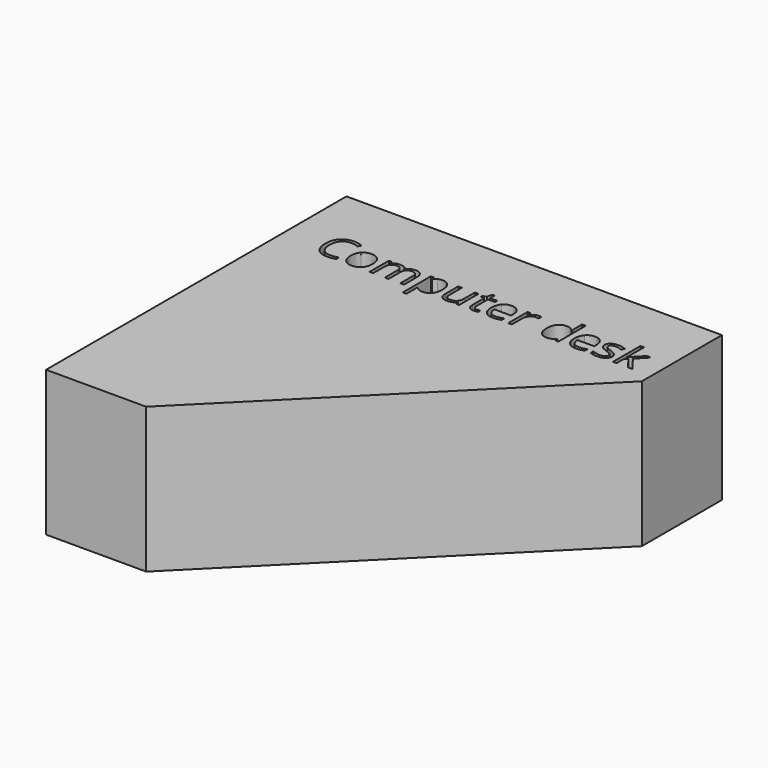
from build123d import *

# Parameters (mm, degrees)
F1_DEPTH = 736.6


with BuildPart() as f1:
    # F0 (on Top) → F1 (new body)
    with BuildSketch(Plane.XY):
        Polygon((1905, 0), (0, 0), (0, -1905), (508, -1905), (1905, -508), align=None)
        with BuildLine():
            add(Edge.make_bspline(
                [(303.0033009032, -308.7238721719), (284.4181366044, -300.022147847), (265.8329723055, -300.022147847)],
                knots=[0, 0, 0, 1, 1, 1], degree=2))
            add(Edge.make_bspline(
                [(265.8329723055, -300.022147847), (238.8683697678, -300.022147847), (223.2553993741, -317.9806447562)],
                knots=[0, 0, 0, 1, 1, 1], degree=2))
            add(Edge.make_bspline(
                [(223.2553993741, -317.9806447562), (207.6424289805, -335.9391416654), (207.6424289805, -367.1650824527)],
                knots=[0, 0, 0, 1, 1, 1], degree=2))
            add(Edge.make_bspline(
                [(207.6424289805, -367.1650824527), (207.6424289805, -399.250452803), (222.7003511147, -416.7792349308)],
                knots=[0, 0, 0, 1, 1, 1], degree=2))
            add(Edge.make_bspline(
                [(222.7003511147, -416.7792349308), (237.758273249, -434.3080170585), (265.6181149147, -434.3080170585)],
                knots=[0, 0, 0, 1, 1, 1], degree=2))
            add(Edge.make_bspline(
                [(265.6181149147, -434.3080170585), (282.7350870436, -434.3080170585), (304.686350464, -428.1487718574)],
                knots=[0, 0, 0, 1, 1, 1], degree=2))
            Line((304.686350464, -428.1487718574), (304.686350464, -444.8002196396))
            add(Edge.make_bspline(
                [(304.686350464, -444.8002196396), (287.6768070306, -451.2101317966), (262.7175401398, -451.2101317966)],
                knots=[0, 0, 0, 1, 1, 1], degree=2))
            add(Edge.make_bspline(
                [(262.7175401398, -451.2101317966), (226.5856889306, -451.2101317966), (206.9441424606, -429.2588683762)],
                knots=[0, 0, 0, 1, 1, 1], degree=2))
            add(Edge.make_bspline(
                [(206.9441424606, -429.2588683762), (187.3025959905, -407.3076049557), (187.3025959905, -366.9144154969)],
                knots=[0, 0, 0, 1, 1, 1], degree=2))
            add(Edge.make_bspline(
                [(187.3025959905, -366.9144154969), (187.3025959905, -341.63286252), (196.756321183, -322.6179834396)],
                knots=[0, 0, 0, 1, 1, 1], degree=2))
            add(Edge.make_bspline(
                [(196.756321183, -322.6179834396), (206.2100463755, -303.6031043593), (224.0611145894, -293.3078543864)],
                knots=[0, 0, 0, 1, 1, 1], degree=2))
            add(Edge.make_bspline(
                [(224.0611145894, -293.3078543864), (241.9121828033, -283.0126044135), (266.0836392613, -283.0126044135)],
                knots=[0, 0, 0, 1, 1, 1], degree=2))
            add(Edge.make_bspline(
                [(266.0836392613, -283.0126044135), (291.7949070197, -283.0126044135), (311.0604530559, -292.3947104757)],
                knots=[0, 0, 0, 1, 1, 1], degree=2))
            Line((311.0604530559, -292.3947104757), (303.0033009032, -308.7238721719))
        make_face(mode=Mode.SUBTRACT)
        with BuildLine():
            add(Edge.make_bspline(
                [(428.2830644864, -341.1852429559), (443.448415316, -358.3201198673), (443.448415316, -387.5049154427)],
                knots=[0, 0, 0, 1, 1, 1], degree=2))
            add(Edge.make_bspline(
                [(443.448415316, -387.5049154427), (443.448415316, -417.5133310158), (428.3546836166, -434.3617314062)],
                knots=[0, 0, 0, 1, 1, 1], degree=2))
            add(Edge.make_bspline(
                [(428.3546836166, -434.3617314062), (413.2609519172, -451.2101317966), (386.6186354657, -451.2101317966)],
                knots=[0, 0, 0, 1, 1, 1], degree=2))
            add(Edge.make_bspline(
                [(386.6186354657, -451.2101317966), (370.146235509, -451.2101317966), (357.3980303252, -443.47526573)],
                knots=[0, 0, 0, 1, 1, 1], degree=2))
            add(Edge.make_bspline(
                [(357.3980303252, -443.47526573), (344.6498251414, -435.7403996635), (337.7027695075, -421.3091449189)],
                knots=[0, 0, 0, 1, 1, 1], degree=2))
            add(Edge.make_bspline(
                [(337.7027695075, -421.3091449189), (330.7557138736, -406.8778901743), (330.7557138736, -387.5049154427)],
                knots=[0, 0, 0, 1, 1, 1], degree=2))
            add(Edge.make_bspline(
                [(330.7557138736, -387.5049154427), (330.7557138736, -357.5323094346), (345.7599216602, -340.7913377396)],
                knots=[0, 0, 0, 1, 1, 1], degree=2))
            add(Edge.make_bspline(
                [(345.7599216602, -340.7913377396), (360.7641294468, -324.0503660445), (387.4064458984, -324.0503660445)],
                knots=[0, 0, 0, 1, 1, 1], degree=2))
            add(Edge.make_bspline(
                [(387.4064458984, -324.0503660445), (413.1177136567, -324.0503660445), (428.2830644864, -341.1852429559)],
                knots=[0, 0, 0, 1, 1, 1], degree=2))
        make_face(mode=Mode.SUBTRACT)
        with BuildLine():
            Line((650.9290356392, -448.9541291939), (632.3796809054, -448.9541291939))
            Line((632.3796809054, -448.9541291939), (632.3796809054, -369.1704180996))
            add(Edge.make_bspline(
                [(632.3796809054, -369.1704180996), (632.3796809054, -354.4884963992), (626.1130070089, -347.1654403315)],
                knots=[0, 0, 0, 1, 1, 1], degree=2))
            add(Edge.make_bspline(
                [(626.1130070089, -347.1654403315), (619.8463331123, -339.8423842638), (606.6326035819, -339.8423842638)],
                knots=[0, 0, 0, 1, 1, 1], degree=2))
            add(Edge.make_bspline(
                [(606.6326035819, -339.8423842638), (589.3007740623, -339.8423842638), (581.0108597363, -349.797443368)],
                knots=[0, 0, 0, 1, 1, 1], degree=2))
            add(Edge.make_bspline(
                [(581.0108597363, -349.797443368), (572.7209454103, -359.7525024723), (572.7209454103, -380.4504311134)],
                knots=[0, 0, 0, 1, 1, 1], degree=2))
            Line((572.7209454103, -380.4504311134), (572.7209454103, -448.9541291939))
            Line((572.7209454103, -448.9541291939), (554.1357811115, -448.9541291939))
            Line((554.1357811115, -448.9541291939), (554.1357811115, -369.1704180996))
            add(Edge.make_bspline(
                [(554.1357811115, -369.1704180996), (554.1357811115, -354.4884963992), (547.8691072149, -347.1654403315)],
                knots=[0, 0, 0, 1, 1, 1], degree=2))
            add(Edge.make_bspline(
                [(547.8691072149, -347.1654403315), (541.6024333184, -339.8423842638), (528.2812750926, -339.8423842638)],
                knots=[0, 0, 0, 1, 1, 1], degree=2))
            add(Edge.make_bspline(
                [(528.2812750926, -339.8423842638), (510.8420168776, -339.8423842638), (502.7311503773, -350.2987772798)],
                knots=[0, 0, 0, 1, 1, 1], degree=2))
            add(Edge.make_bspline(
                [(502.7311503773, -350.2987772798), (494.6202838769, -360.7551702957), (494.6202838769, -384.6043406677)],
                knots=[0, 0, 0, 1, 1, 1], degree=2))
            Line((494.6202838769, -384.6043406677), (494.6202838769, -448.9541291939))
            Line((494.6202838769, -448.9541291939), (476.035119578, -448.9541291939))
            Line((476.035119578, -448.9541291939), (476.035119578, -326.3063686473))
            Line((476.035119578, -326.3063686473), (491.1467560599, -326.3063686473))
            Line((491.1467560599, -326.3063686473), (494.1547595303, -343.10105469))
            Line((494.1547595303, -343.10105469), (495.0499986584, -343.10105469))
            add(Edge.make_bspline(
                [(495.0499986584, -343.10105469), (500.3140047315, -334.1486634093), (509.8930634019, -329.0995147269)],
                knots=[0, 0, 0, 1, 1, 1], degree=2))
            add(Edge.make_bspline(
                [(509.8930634019, -329.0995147269), (519.4721220723, -324.0503660445), (531.3250881281, -324.0503660445)],
                knots=[0, 0, 0, 1, 1, 1], degree=2))
            add(Edge.make_bspline(
                [(531.3250881281, -324.0503660445), (560.0801689219, -324.0503660445), (568.9251315073, -344.8915329462)],
                knots=[0, 0, 0, 1, 1, 1], degree=2))
            Line((568.9251315073, -344.8915329462), (569.8203706354, -344.8915329462))
            add(Edge.make_bspline(
                [(569.8203706354, -344.8915329462), (575.2992340992, -335.2587599281), (585.7019127675, -329.6545629863)],
                knots=[0, 0, 0, 1, 1, 1], degree=2))
            add(Edge.make_bspline(
                [(585.7019127675, -329.6545629863), (596.1045914357, -324.0503660445), (609.4257496615, -324.0503660445)],
                knots=[0, 0, 0, 1, 1, 1], degree=2))
            add(Edge.make_bspline(
                [(609.4257496615, -324.0503660445), (630.231106998, -324.0503660445), (640.5800713186, -334.7395212338)],
                knots=[0, 0, 0, 1, 1, 1], degree=2))
            add(Edge.make_bspline(
                [(640.5800713186, -334.7395212338), (650.9290356392, -345.428676423), (650.9290356392, -368.9555607089)],
                knots=[0, 0, 0, 1, 1, 1], degree=2))
            Line((650.9290356392, -368.9555607089), (650.9290356392, -448.9541291939))
        make_face(mode=Mode.SUBTRACT)
        with BuildLine():
            add(Edge.make_bspline(
                [(783.7288078981, -434.4691601016), (770.2465066293, -451.2101317966), (746.289907562, -451.2101317966)],
                knots=[0, 0, 0, 1, 1, 1], degree=2))
            add(Edge.make_bspline(
                [(746.289907562, -451.2101317966), (734.2937032457, -451.2101317966), (724.3923584892, -446.7876505039)],
                knots=[0, 0, 0, 1, 1, 1], degree=2))
            add(Edge.make_bspline(
                [(724.3923584892, -446.7876505039), (714.4910137327, -442.3651692112), (707.7946250546, -433.1621109746)],
                knots=[0, 0, 0, 1, 1, 1], degree=2))
            Line((707.7946250546, -433.1621109746), (706.43386158, -433.1621109746))
            add(Edge.make_bspline(
                [(706.43386158, -433.1621109746), (707.7946250546, -443.9049805115), (707.7946250546, -453.5377535296)],
                knots=[0, 0, 0, 1, 1, 1], degree=2))
            Line((707.7946250546, -453.5377535296), (707.7946250546, -504.0292403532))
            Line((707.7946250546, -504.0292403532), (689.2094607558, -504.0292403532))
            Line((689.2094607558, -504.0292403532), (689.2094607558, -326.3063686473))
            Line((689.2094607558, -326.3063686473), (704.3210972377, -326.3063686473))
            Line((704.3210972377, -326.3063686473), (706.8993859266, -343.10105469))
            Line((706.8993859266, -343.10105469), (707.7946250546, -343.10105469))
            add(Edge.make_bspline(
                [(707.7946250546, -343.10105469), (714.9565380793, -333.0027573253), (724.4639776194, -328.5265616849)],
                knots=[0, 0, 0, 1, 1, 1], degree=2))
            add(Edge.make_bspline(
                [(724.4639776194, -328.5265616849), (733.9714171596, -324.0503660445), (746.289907562, -324.0503660445)],
                knots=[0, 0, 0, 1, 1, 1], degree=2))
            add(Edge.make_bspline(
                [(746.289907562, -324.0503660445), (770.6762214108, -324.0503660445), (783.9436652889, -340.7376233919)],
                knots=[0, 0, 0, 1, 1, 1], degree=2))
            add(Edge.make_bspline(
                [(783.9436652889, -340.7376233919), (797.211109167, -357.4248807393), (797.211109167, -387.5049154427)],
                knots=[0, 0, 0, 1, 1, 1], degree=2))
            add(Edge.make_bspline(
                [(797.211109167, -387.5049154427), (797.211109167, -417.7281884065), (783.7288078981, -434.4691601016)],
                knots=[0, 0, 0, 1, 1, 1], degree=2))
        make_face(mode=Mode.SUBTRACT)
        with BuildLine():
            Line((828.3296212589, -326.3063686473), (847.1296429486, -326.3063686473))
            Line((847.1296429486, -326.3063686473), (847.1296429486, -405.8752223508))
            add(Edge.make_bspline(
                [(847.1296429486, -405.8752223508), (847.1296429486, -420.8794301374), (853.9513651045, -428.2562005527)],
                knots=[0, 0, 0, 1, 1, 1], degree=2))
            add(Edge.make_bspline(
                [(853.9513651045, -428.2562005527), (860.7730872605, -435.6329709681), (875.3117707004, -435.6329709681)],
                knots=[0, 0, 0, 1, 1, 1], degree=2))
            add(Edge.make_bspline(
                [(875.3117707004, -435.6329709681), (894.5773167367, -435.6329709681), (903.4580888872, -425.1228636045)],
                knots=[0, 0, 0, 1, 1, 1], degree=2))
            add(Edge.make_bspline(
                [(903.4580888872, -425.1228636045), (912.3388610377, -414.6127562408), (912.3388610377, -390.7635858689)],
                knots=[0, 0, 0, 1, 1, 1], degree=2))
            Line((912.3388610377, -390.7635858689), (912.3388610377, -326.3063686473))
            Line((912.3388610377, -326.3063686473), (930.9240253366, -326.3063686473))
            Line((930.9240253366, -326.3063686473), (930.9240253366, -448.9541291939))
            Line((930.9240253366, -448.9541291939), (915.5975314639, -448.9541291939))
            Line((915.5975314639, -448.9541291939), (912.9118140797, -432.5175388024))
            Line((912.9118140797, -432.5175388024), (911.9091462562, -432.5175388024))
            add(Edge.make_bspline(
                [(911.9091462562, -432.5175388024), (906.2154254017, -441.5773587785), (896.0813184718, -446.3937452876)],
                knots=[0, 0, 0, 1, 1, 1], degree=2))
            add(Edge.make_bspline(
                [(896.0813184718, -446.3937452876), (885.947211542, -451.2101317966), (872.9483394023, -451.2101317966)],
                knots=[0, 0, 0, 1, 1, 1], degree=2))
            add(Edge.make_bspline(
                [(872.9483394023, -451.2101317966), (850.5673612004, -451.2101317966), (839.4484912297, -440.5746909551)],
                knots=[0, 0, 0, 1, 1, 1], degree=2))
            add(Edge.make_bspline(
                [(839.4484912297, -440.5746909551), (828.3296212589, -429.9392501135), (828.3296212589, -406.5556040881)],
                knots=[0, 0, 0, 1, 1, 1], degree=2))
            Line((828.3296212589, -406.5556040881), (828.3296212589, -326.3063686473))
        make_face(mode=Mode.SUBTRACT)
        with BuildLine():
            add(Edge.make_bspline(
                [(995.4886712535, -429.921345331), (1000.7526773266, -435.8478283588), (1009.9199259981, -435.8478283588)],
                knots=[0, 0, 0, 1, 1, 1], degree=2))
            add(Edge.make_bspline(
                [(1009.9199259981, -435.8478283588), (1014.8616459851, -435.8478283588), (1019.4452703209, -435.1316370564)],
                knots=[0, 0, 0, 1, 1, 1], degree=2))
            add(Edge.make_bspline(
                [(1019.4452703209, -435.1316370564), (1024.0288946566, -434.4154457539), (1026.7146120409, -433.6276353212)],
                knots=[0, 0, 0, 1, 1, 1], degree=2))
            Line((1026.7146120409, -433.6276353212), (1026.7146120409, -447.8440326751))
            add(Edge.make_bspline(
                [(1026.7146120409, -447.8440326751), (1023.7066085705, -449.27641528), (1017.8338398903, -450.2432735383)],
                knots=[0, 0, 0, 1, 1, 1], degree=2))
            add(Edge.make_bspline(
                [(1017.8338398903, -450.2432735383), (1011.9610712101, -451.2101317966), (1007.2342086139, -451.2101317966)],
                knots=[0, 0, 0, 1, 1, 1], degree=2))
            add(Edge.make_bspline(
                [(1007.2342086139, -451.2101317966), (971.6753104467, -451.2101317966), (971.6753104467, -413.7175171128)],
                knots=[0, 0, 0, 1, 1, 1], degree=2))
            Line((971.6753104467, -413.7175171128), (971.6753104467, -340.7376233919))
            Line((971.6753104467, -340.7376233919), (954.0928139712, -340.7376233919))
            Line((954.0928139712, -340.7376233919), (954.0928139712, -331.7852321111))
            Line((954.0928139712, -331.7852321111), (971.6753104467, -324.0503660445))
            Line((971.6753104467, -324.0503660445), (979.4817956435, -297.8735739396))
            Line((979.4817956435, -297.8735739396), (990.2246651804, -297.8735739396))
            Line((990.2246651804, -297.8735739396), (990.2246651804, -326.3063686473))
            Line((990.2246651804, -326.3063686473), (1025.8193729128, -326.3063686473))
            Line((1025.8193729128, -326.3063686473), (1025.8193729128, -340.7376233919))
            Line((1025.8193729128, -340.7376233919), (990.2246651804, -340.7376233919))
            Line((990.2246651804, -340.7376233919), (990.2246651804, -412.9297066801))
            add(Edge.make_bspline(
                [(990.2246651804, -412.9297066801), (990.2246651804, -423.9948623031), (995.4886712535, -429.921345331)],
                knots=[0, 0, 0, 1, 1, 1], degree=2))
        make_face(mode=Mode.SUBTRACT)
        with BuildLine():
            add(Edge.make_bspline(
                [(1124.224057871, -449.3480344102), (1115.4507144159, -451.2101317966), (1103.0247953182, -451.2101317966)],
                knots=[0, 0, 0, 1, 1, 1], degree=2))
            add(Edge.make_bspline(
                [(1103.0247953182, -451.2101317966), (1075.8453353897, -451.2101317966), (1060.1070315181, -434.6303031446)],
                knots=[0, 0, 0, 1, 1, 1], degree=2))
            add(Edge.make_bspline(
                [(1060.1070315181, -434.6303031446), (1044.3687276465, -418.0504744927), (1044.3687276465, -388.6508215266)],
                knots=[0, 0, 0, 1, 1, 1], degree=2))
            add(Edge.make_bspline(
                [(1044.3687276465, -388.6508215266), (1044.3687276465, -358.9646920396), (1058.9790302168, -341.5075290421)],
                knots=[0, 0, 0, 1, 1, 1], degree=2))
            add(Edge.make_bspline(
                [(1058.9790302168, -341.5075290421), (1073.589332787, -324.0503660445), (1098.2263135917, -324.0503660445)],
                knots=[0, 0, 0, 1, 1, 1], degree=2))
            add(Edge.make_bspline(
                [(1098.2263135917, -324.0503660445), (1121.2518639658, -324.0503660445), (1134.680450887, -339.2157168742)],
                knots=[0, 0, 0, 1, 1, 1], degree=2))
            add(Edge.make_bspline(
                [(1134.680450887, -339.2157168742), (1148.1090378081, -354.3810677038), (1148.1090378081, -379.2329058992)],
                knots=[0, 0, 0, 1, 1, 1], degree=2))
            Line((1148.1090378081, -379.2329058992), (1148.1090378081, -390.9784432596))
            Line((1148.1090378081, -390.9784432596), (1063.6342736828, -390.9784432596))
            add(Edge.make_bspline(
                [(1063.6342736828, -390.9784432596), (1064.2072267247, -412.5716110288), (1074.5561910453, -423.7621001298)],
                knots=[0, 0, 0, 1, 1, 1], degree=2))
            add(Edge.make_bspline(
                [(1074.5561910453, -423.7621001298), (1084.9051553659, -434.9525892308), (1103.7051770555, -434.9525892308)],
                knots=[0, 0, 0, 1, 1, 1], degree=2))
            add(Edge.make_bspline(
                [(1103.7051770555, -434.9525892308), (1123.5078665686, -434.9525892308), (1142.845031735, -426.6805796873)],
                knots=[0, 0, 0, 1, 1, 1], degree=2))
            Line((1142.845031735, -426.6805796873), (1142.845031735, -443.2604083393))
            add(Edge.make_bspline(
                [(1142.845031735, -443.2604083393), (1132.9974013262, -447.4859370238), (1124.224057871, -449.3480344102)],
                knots=[0, 0, 0, 1, 1, 1], degree=2))
        make_face(mode=Mode.SUBTRACT)
        with BuildLine():
            add(Edge.make_bspline(
                [(1214.6074002417, -330.5498021144), (1224.2401732598, -324.0503660445), (1235.7708532295, -324.0503660445)],
                knots=[0, 0, 0, 1, 1, 1], degree=2))
            add(Edge.make_bspline(
                [(1235.7708532295, -324.0503660445), (1243.9354340775, -324.0503660445), (1250.4169653648, -325.4111295192)],
                knots=[0, 0, 0, 1, 1, 1], degree=2))
            Line((1250.4169653648, -325.4111295192), (1247.8386766759, -342.6355303434))
            add(Edge.make_bspline(
                [(1247.8386766759, -342.6355303434), (1240.2470488698, -340.9524807826), (1234.4100897548, -340.9524807826)],
                knots=[0, 0, 0, 1, 1, 1], degree=2))
            add(Edge.make_bspline(
                [(1234.4100897548, -340.9524807826), (1219.5133106636, -340.9524807826), (1208.9494889523, -353.0382090117)],
                knots=[0, 0, 0, 1, 1, 1], degree=2))
            add(Edge.make_bspline(
                [(1208.9494889523, -353.0382090117), (1198.3856672409, -365.1239372407), (1198.3856672409, -383.1361484976)],
                knots=[0, 0, 0, 1, 1, 1], degree=2))
            Line((1198.3856672409, -383.1361484976), (1198.3856672409, -448.9541291939))
            Line((1198.3856672409, -448.9541291939), (1179.8005029421, -448.9541291939))
            Line((1179.8005029421, -448.9541291939), (1179.8005029421, -326.3063686473))
            Line((1179.8005029421, -326.3063686473), (1195.1269968147, -326.3063686473))
            Line((1195.1269968147, -326.3063686473), (1197.2755707221, -349.0096329353))
            Line((1197.2755707221, -349.0096329353), (1198.1708098502, -349.0096329353))
            add(Edge.make_bspline(
                [(1198.1708098502, -349.0096329353), (1204.9746272236, -337.0492381842), (1214.6074002417, -330.5498021144)],
                knots=[0, 0, 0, 1, 1, 1], degree=2))
        make_face(mode=Mode.SUBTRACT)
        with BuildLine():
            Line((1418.8651597038, -448.9541291939), (1416.3942997103, -432.5175388024))
            Line((1416.3942997103, -432.5175388024), (1415.3916318869, -432.5175388024))
            add(Edge.make_bspline(
                [(1415.3916318869, -432.5175388024), (1402.5359980077, -451.2101317966), (1376.8963493795, -451.2101317966)],
                knots=[0, 0, 0, 1, 1, 1], degree=2))
            add(Edge.make_bspline(
                [(1376.8963493795, -451.2101317966), (1352.8323216168, -451.2101317966), (1339.4574490434, -434.7556366226)],
                knots=[0, 0, 0, 1, 1, 1], degree=2))
            add(Edge.make_bspline(
                [(1339.4574490434, -434.7556366226), (1326.0825764699, -418.3011414485), (1326.0825764699, -387.9704397893)],
                knots=[0, 0, 0, 1, 1, 1], degree=2))
            add(Edge.make_bspline(
                [(1326.0825764699, -387.9704397893), (1326.0825764699, -357.63973813), (1339.511163391, -340.8450520873)],
                knots=[0, 0, 0, 1, 1, 1], degree=2))
            add(Edge.make_bspline(
                [(1339.511163391, -340.8450520873), (1352.9397503122, -324.0503660445), (1376.8963493795, -324.0503660445)],
                knots=[0, 0, 0, 1, 1, 1], degree=2))
            add(Edge.make_bspline(
                [(1376.8963493795, -324.0503660445), (1401.8556162703, -324.0503660445), (1415.1767744961, -342.205815562)],
                knots=[0, 0, 0, 1, 1, 1], degree=2))
            Line((1415.1767744961, -342.205815562), (1416.6449666662, -342.205815562))
            Line((1416.6449666662, -342.205815562), (1415.8571562335, -333.3608529766))
            Line((1415.8571562335, -333.3608529766), (1415.3916318869, -324.7307477819))
            Line((1415.3916318869, -324.7307477819), (1415.3916318869, -274.8122140003))
            Line((1415.3916318869, -274.8122140003), (1433.9767961857, -274.8122140003))
            Line((1433.9767961857, -274.8122140003), (1433.9767961857, -448.9541291939))
            Line((1433.9767961857, -448.9541291939), (1418.8651597038, -448.9541291939))
        make_face(mode=Mode.SUBTRACT)
        with BuildLine():
            add(Edge.make_bspline(
                [(1546.3830211071, -449.3480344102), (1537.609677652, -451.2101317966), (1525.1837585543, -451.2101317966)],
                knots=[0, 0, 0, 1, 1, 1], degree=2))
            add(Edge.make_bspline(
                [(1525.1837585543, -451.2101317966), (1498.0042986258, -451.2101317966), (1482.2659947542, -434.6303031446)],
                knots=[0, 0, 0, 1, 1, 1], degree=2))
            add(Edge.make_bspline(
                [(1482.2659947542, -434.6303031446), (1466.5276908826, -418.0504744927), (1466.5276908826, -388.6508215266)],
                knots=[0, 0, 0, 1, 1, 1], degree=2))
            add(Edge.make_bspline(
                [(1466.5276908826, -388.6508215266), (1466.5276908826, -358.9646920396), (1481.1379934529, -341.5075290421)],
                knots=[0, 0, 0, 1, 1, 1], degree=2))
            add(Edge.make_bspline(
                [(1481.1379934529, -341.5075290421), (1495.7482960231, -324.0503660445), (1520.3852768278, -324.0503660445)],
                knots=[0, 0, 0, 1, 1, 1], degree=2))
            add(Edge.make_bspline(
                [(1520.3852768278, -324.0503660445), (1543.4108272019, -324.0503660445), (1556.8394141231, -339.2157168742)],
                knots=[0, 0, 0, 1, 1, 1], degree=2))
            add(Edge.make_bspline(
                [(1556.8394141231, -339.2157168742), (1570.2680010442, -354.3810677038), (1570.2680010442, -379.2329058992)],
                knots=[0, 0, 0, 1, 1, 1], degree=2))
            Line((1570.2680010442, -379.2329058992), (1570.2680010442, -390.9784432596))
            Line((1570.2680010442, -390.9784432596), (1485.7932369189, -390.9784432596))
            add(Edge.make_bspline(
                [(1485.7932369189, -390.9784432596), (1486.3661899608, -412.5716110288), (1496.7151542814, -423.7621001298)],
                knots=[0, 0, 0, 1, 1, 1], degree=2))
            add(Edge.make_bspline(
                [(1496.7151542814, -423.7621001298), (1507.064118602, -434.9525892308), (1525.8641402916, -434.9525892308)],
                knots=[0, 0, 0, 1, 1, 1], degree=2))
            add(Edge.make_bspline(
                [(1525.8641402916, -434.9525892308), (1545.6668298047, -434.9525892308), (1565.0039949711, -426.6805796873)],
                knots=[0, 0, 0, 1, 1, 1], degree=2))
            Line((1565.0039949711, -426.6805796873), (1565.0039949711, -443.2604083393))
            add(Edge.make_bspline(
                [(1565.0039949711, -443.2604083393), (1555.1563645623, -447.4859370238), (1546.3830211071, -449.3480344102)],
                knots=[0, 0, 0, 1, 1, 1], degree=2))
        make_face(mode=Mode.SUBTRACT)
        with BuildLine():
            add(Edge.make_bspline(
                [(1673.3995485987, -395.2397815092), (1681.0627955351, -403.2969336619), (1681.0627955351, -415.5079953689)],
                knots=[0, 0, 0, 1, 1, 1], degree=2))
            add(Edge.make_bspline(
                [(1681.0627955351, -415.5079953689), (1681.0627955351, -432.6249674978), (1668.3145903512, -441.9175496472)],
                knots=[0, 0, 0, 1, 1, 1], degree=2))
            add(Edge.make_bspline(
                [(1668.3145903512, -441.9175496472), (1655.5663851674, -451.2101317966), (1632.5050252282, -451.2101317966)],
                knots=[0, 0, 0, 1, 1, 1], degree=2))
            add(Edge.make_bspline(
                [(1632.5050252282, -451.2101317966), (1608.1187113793, -451.2101317966), (1594.4752670674, -443.47526573)],
                knots=[0, 0, 0, 1, 1, 1], degree=2))
            Line((1594.4752670674, -443.47526573), (1594.4752670674, -426.2508649058))
            add(Edge.make_bspline(
                [(1594.4752670674, -426.2508649058), (1603.3202296528, -430.7270605462), (1613.4364318001, -433.2874444525)],
                knots=[0, 0, 0, 1, 1, 1], degree=2))
            add(Edge.make_bspline(
                [(1613.4364318001, -433.2874444525), (1623.5526339474, -435.8478283588), (1632.9705495748, -435.8478283588)],
                knots=[0, 0, 0, 1, 1, 1], degree=2))
            add(Edge.make_bspline(
                [(1632.9705495748, -435.8478283588), (1647.5092330147, -435.8478283588), (1655.3336229941, -431.2104896754)],
                knots=[0, 0, 0, 1, 1, 1], degree=2))
            add(Edge.make_bspline(
                [(1655.3336229941, -431.2104896754), (1663.1580129735, -426.573150992), (1663.1580129735, -417.0478066692)],
                knots=[0, 0, 0, 1, 1, 1], degree=2))
            add(Edge.make_bspline(
                [(1663.1580129735, -417.0478066692), (1663.1580129735, -409.8858936446), (1656.9629582072, -404.8009353971)],
                knots=[0, 0, 0, 1, 1, 1], degree=2))
            add(Edge.make_bspline(
                [(1656.9629582072, -404.8009353971), (1650.7679034409, -399.7159771496), (1632.7198826189, -392.7689215158)],
                knots=[0, 0, 0, 1, 1, 1], degree=2))
            add(Edge.make_bspline(
                [(1632.7198826189, -392.7689215158), (1615.6029104901, -386.3948189238), (1608.3872831178, -381.6321467625)],
                knots=[0, 0, 0, 1, 1, 1], degree=2))
            add(Edge.make_bspline(
                [(1608.3872831178, -381.6321467625), (1601.1716557454, -376.8694746011), (1597.6444135808, -370.8355628779)],
                knots=[0, 0, 0, 1, 1, 1], degree=2))
            add(Edge.make_bspline(
                [(1597.6444135808, -370.8355628779), (1594.1171714162, -364.8016511546), (1594.1171714162, -356.4222129158)],
                knots=[0, 0, 0, 1, 1, 1], degree=2))
            add(Edge.make_bspline(
                [(1594.1171714162, -356.4222129158), (1594.1171714162, -341.4180051292), (1606.3282331232, -332.7341855869)],
                knots=[0, 0, 0, 1, 1, 1], degree=2))
            add(Edge.make_bspline(
                [(1606.3282331232, -332.7341855869), (1618.5392948301, -324.0503660445), (1639.7743669481, -324.0503660445)],
                knots=[0, 0, 0, 1, 1, 1], degree=2))
            add(Edge.make_bspline(
                [(1639.7743669481, -324.0503660445), (1659.5770564612, -324.0503660445), (1678.5203164113, -332.1075181972)],
                knots=[0, 0, 0, 1, 1, 1], degree=2))
            Line((1678.5203164113, -332.1075181972), (1671.8955468635, -347.2191546792))
            add(Edge.make_bspline(
                [(1671.8955468635, -347.2191546792), (1653.4536208252, -339.6275268731), (1638.4494130386, -339.6275268731)],
                knots=[0, 0, 0, 1, 1, 1], degree=2))
            add(Edge.make_bspline(
                [(1638.4494130386, -339.6275268731), (1625.2356835082, -339.6275268731), (1618.5213900476, -343.7635316448)],
                knots=[0, 0, 0, 1, 1, 1], degree=2))
            add(Edge.make_bspline(
                [(1618.5213900476, -343.7635316448), (1611.807096587, -347.8995364165), (1611.807096587, -355.1688781365)],
                knots=[0, 0, 0, 1, 1, 1], degree=2))
            add(Edge.make_bspline(
                [(1611.807096587, -355.1688781365), (1611.807096587, -360.1105981235), (1614.3316709282, -363.5662211579)],
                knots=[0, 0, 0, 1, 1, 1], degree=2))
            add(Edge.make_bspline(
                [(1614.3316709282, -363.5662211579), (1616.8562452694, -367.0218441923), (1622.4425374286, -370.1551811405)],
                knots=[0, 0, 0, 1, 1, 1], degree=2))
            add(Edge.make_bspline(
                [(1622.4425374286, -370.1551811405), (1628.0288295878, -373.2885180888), (1643.9282765024, -379.2329058992)],
                knots=[0, 0, 0, 1, 1, 1], degree=2))
            add(Edge.make_bspline(
                [(1643.9282765024, -379.2329058992), (1665.7363016624, -387.1826293566), (1673.3995485987, -395.2397815092)],
                knots=[0, 0, 0, 1, 1, 1], degree=2))
        make_face(mode=Mode.SUBTRACT)
        with BuildLine():
            Line((1728.761136279, -386.1799615331), (1729.6563754071, -386.1799615331))
            add(Edge.make_bspline(
                [(1729.6563754071, -386.1799615331), (1734.4548571336, -379.3403345946), (1744.3024875424, -368.2751789716)],
                knots=[0, 0, 0, 1, 1, 1], degree=2))
            Line((1744.3024875424, -368.2751789716), (1783.9078665686, -326.3063686473))
            Line((1783.9078665686, -326.3063686473), (1805.9665586844, -326.3063686473))
            Line((1805.9665586844, -326.3063686473), (1756.2628822935, -378.5525241619))
            Line((1756.2628822935, -378.5525241619), (1809.4400865013, -448.9541291939))
            Line((1809.4400865013, -448.9541291939), (1786.951679604, -448.9541291939))
            Line((1786.951679604, -448.9541291939), (1743.6221058051, -390.9784432596))
            Line((1743.6221058051, -390.9784432596), (1729.6563754071, -403.0820762712))
            Line((1729.6563754071, -403.0820762712), (1729.6563754071, -448.9541291939))
            Line((1729.6563754071, -448.9541291939), (1711.2860684989, -448.9541291939))
            Line((1711.2860684989, -448.9541291939), (1711.2860684989, -274.8122140003))
            Line((1711.2860684989, -274.8122140003), (1729.6563754071, -274.8122140003))
            Line((1729.6563754071, -274.8122140003), (1729.6563754071, -367.1650824527))
            add(Edge.make_bspline(
                [(1729.6563754071, -367.1650824527), (1729.6563754071, -373.2885180888), (1728.761136279, -386.1799615331)],
                knots=[0, 0, 0, 1, 1, 1], degree=2))
        make_face(mode=Mode.SUBTRACT)
    extrude(amount=F1_DEPTH)


solid = f1.part
